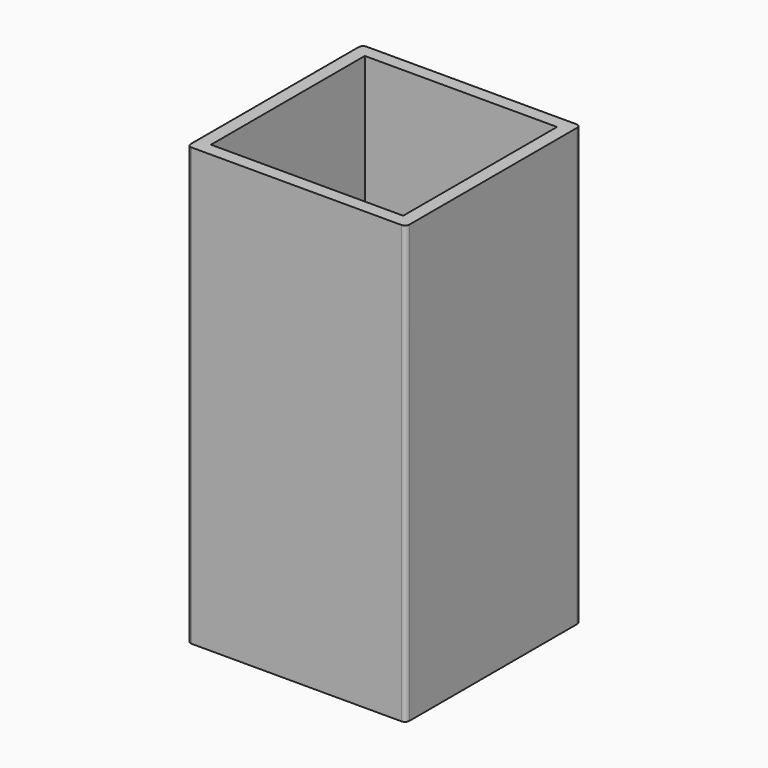
from build123d import *

# Parameters (mm, degrees)
SKETCH_W   = 50
SKETCH_H   = 50
SKETCH_W_2 = 44
SKETCH_H_2 = 44
PAD_DEPTH  = 100
FILLET_R   = 1


with BuildPart() as part:
    # Sketch → Pad (new body)
    with BuildSketch(Plane.XY):
        with Locations((25, 25)):
            Rectangle(SKETCH_W, SKETCH_H)
        with Locations((25, 25)):
            Rectangle(SKETCH_W_2, SKETCH_H_2, mode=Mode.SUBTRACT)
    extrude(amount=PAD_DEPTH)

    # Fillet
    fillet_edges = [part.edges().sort_by_distance(p)[0] for p in [
        (0, 50, 50),
        (50, 50, 50),
        (50, 0, 50),
        (0, 0, 50),
    ]]
    fillet(fillet_edges, radius=FILLET_R)


solid = part.part
